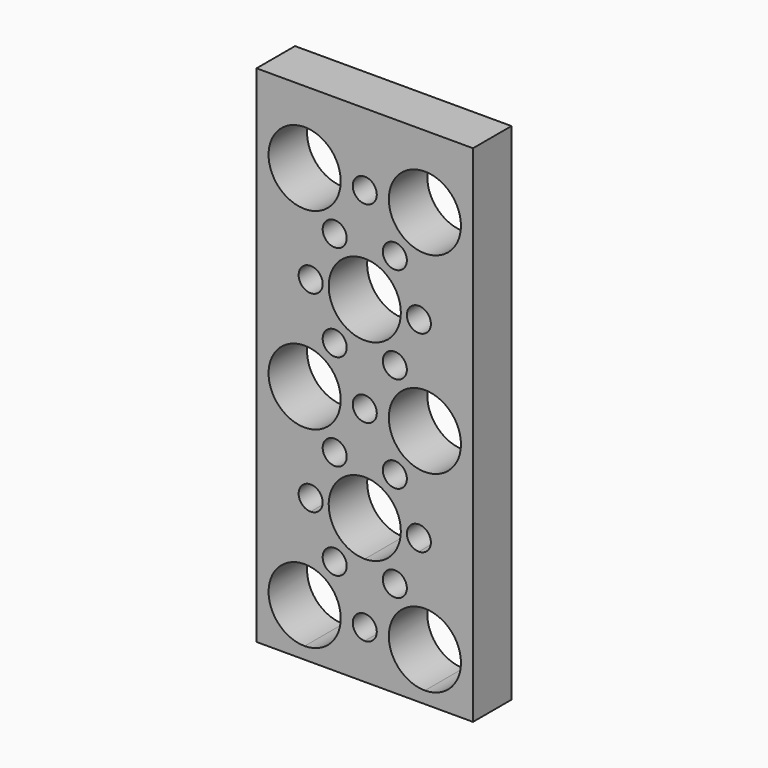
from build123d import *

# Parameters (mm, degrees)
F0_W     = 114.3
F0_H     = 266.7
F2_DEPTH = 25.4
F1_R     = 6.35
F1_R_2   = 19.05
F3_DEPTH = 25.4
F5_R     = 6.35
F6_DEPTH = 25.4


with BuildPart() as f2:
    # F0 (on Front) → F2 (new body)
    with BuildSketch(Plane.XZ):
        with Locations((-57.15, 133.35)):
            Rectangle(F0_W, F0_H)
    extrude(amount=F2_DEPTH)

    # F1 (on face) → F3 (cut)
    with BuildSketch(Plane.XZ):
        with BuildLine():
            ThreePointArc((-66.675, 50.8), (-73.025, 57.15), (-79.375, 50.8))
            ThreePointArc((-79.375, 50.8), (-73.025, 44.45), (-66.675, 50.8))
        make_face()
        with BuildLine():
            ThreePointArc((-88.9, 44.45), (-107.95, 25.4), (-88.9, 6.35))
            Line((-88.9, 6.35), (-88.9, 25.4))
            Line((-88.9, 25.4), (-88.9, 44.45))
        make_face()
        with BuildLine():
            Line((-88.9, 25.4), (-88.9, 6.35))
            ThreePointArc((-88.9, 6.35), (-75.429616, 11.929616), (-69.85, 25.4))
            ThreePointArc((-69.85, 25.4), (-75.429616, 38.870384), (-88.9, 44.45))
            Line((-88.9, 44.45), (-88.9, 25.4))
        make_face()
        with BuildLine():
            ThreePointArc((-38.1, 76.2), (-70.620384, 89.670384), (-57.15, 57.15))
            ThreePointArc((-57.15, 57.15), (-43.679616, 62.729616), (-38.1, 76.2))
        make_face()
        with Locations((-41.275, 50.8)):
            Circle(F1_R)
        with BuildLine():
            ThreePointArc((-25.4, 44.45), (-44.45, 25.4), (-25.4, 6.35))
            Line((-25.4, 6.35), (-25.4, 25.4))
            Line((-25.4, 25.4), (-25.4, 44.45))
        make_face()
        with BuildLine():
            Line((-25.4, 25.4), (-25.4, 6.35))
            ThreePointArc((-25.4, 6.35), (-11.929616, 11.929616), (-6.35, 25.4))
            ThreePointArc((-6.35, 25.4), (-11.929616, 38.870384), (-25.4, 44.45))
            Line((-25.4, 44.45), (-25.4, 25.4))
        make_face()
        with Locations((-73.025, 101.6)):
            Circle(F1_R)
        with Locations((-41.275, 101.6)):
            Circle(F1_R)
        with Locations((-73.025, 152.4)):
            Circle(F1_R)
        with Locations((-41.275, 152.4)):
            Circle(F1_R)
        with Locations((-88.9, 127)):
            Circle(F1_R_2)
        with Locations((-25.4, 127)):
            Circle(F1_R_2)
        with Locations((-73.025, 203.2)):
            Circle(F1_R)
        with Locations((-41.275, 203.2)):
            Circle(F1_R)
        with Locations((-57.15, 177.8)):
            Circle(F1_R_2)
        with Locations((-88.9, 228.6)):
            Circle(F1_R_2)
        with Locations((-25.4, 228.6)):
            Circle(F1_R_2)
    extrude(amount=F3_DEPTH, mode=Mode.SUBTRACT)

    # F5 (on face) → F6 (cut)
    with BuildSketch(Plane.XZ.offset(25.4)):
        with BuildLine():
            ThreePointArc((-79.375, 76.2), (-90.215128, 80.690128), (-85.725, 69.85))
            ThreePointArc((-85.725, 69.85), (-81.234872, 71.709872), (-79.375, 76.2))
        make_face()
        with BuildLine():
            ThreePointArc((-50.8, 25.4), (-61.640128, 29.890128), (-57.15, 19.05))
            ThreePointArc((-57.15, 19.05), (-52.659872, 20.909872), (-50.8, 25.4))
        make_face()
        with BuildLine():
            ThreePointArc((-22.225, 76.2), (-33.065128, 80.690128), (-28.575, 69.85))
            ThreePointArc((-28.575, 69.85), (-24.084872, 71.709872), (-22.225, 76.2))
        make_face()
        with Locations((-85.725, 177.8)):
            Circle(F5_R)
        with Locations((-28.575, 177.8)):
            Circle(F5_R)
        with Locations((-57.15, 127)):
            Circle(F5_R)
        with Locations((-57.15, 228.6)):
            Circle(F5_R)
    extrude(amount=-F6_DEPTH, mode=Mode.SUBTRACT)


solid = f2.part
